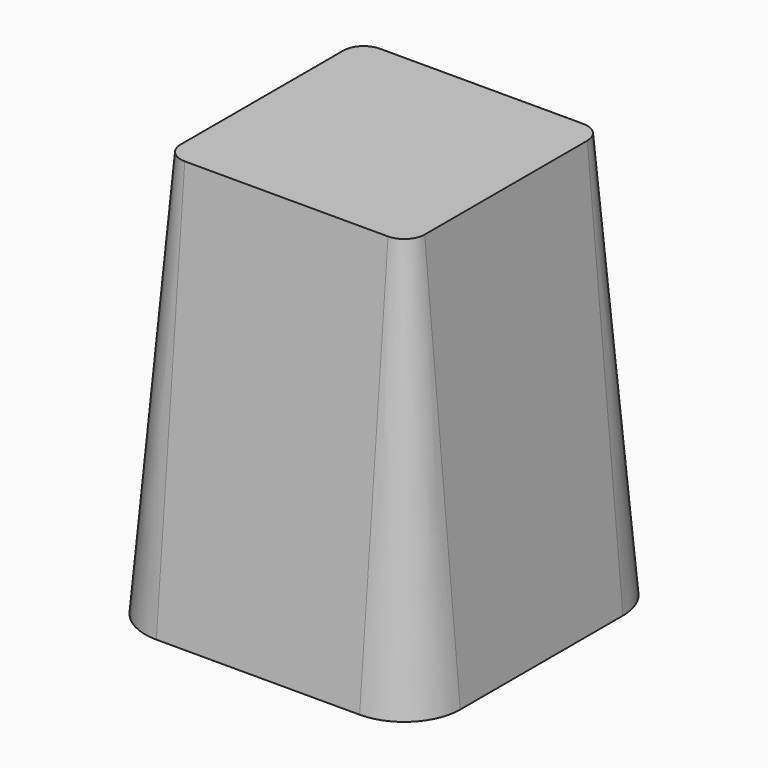
from build123d import *

# Parameters (mm, degrees)
F1_DEPTH = 500
F1_TAPER = -5


with BuildPart() as f1:
    # F0 (on Top) → F1 (new body)
    with BuildSketch(Plane.XY):
        with BuildLine():
            ThreePointArc((-150, -125), (-142.6776695297, -142.6776695297), (-125, -150))
            Line((-125, -150), (125, -150))
            ThreePointArc((125, -150), (142.6776695297, -142.6776695297), (150, -125))
            Line((150, -125), (150, 125))
            ThreePointArc((150, 125), (142.6776695297, 142.6776695297), (125, 150))
            Line((125, 150), (-125, 150))
            ThreePointArc((-125, 150), (-142.6776695297, 142.6776695297), (-150, 125))
            Line((-150, 125), (-150, -125))
        make_face()
    extrude(amount=-F1_DEPTH, taper=F1_TAPER)


solid = f1.part
